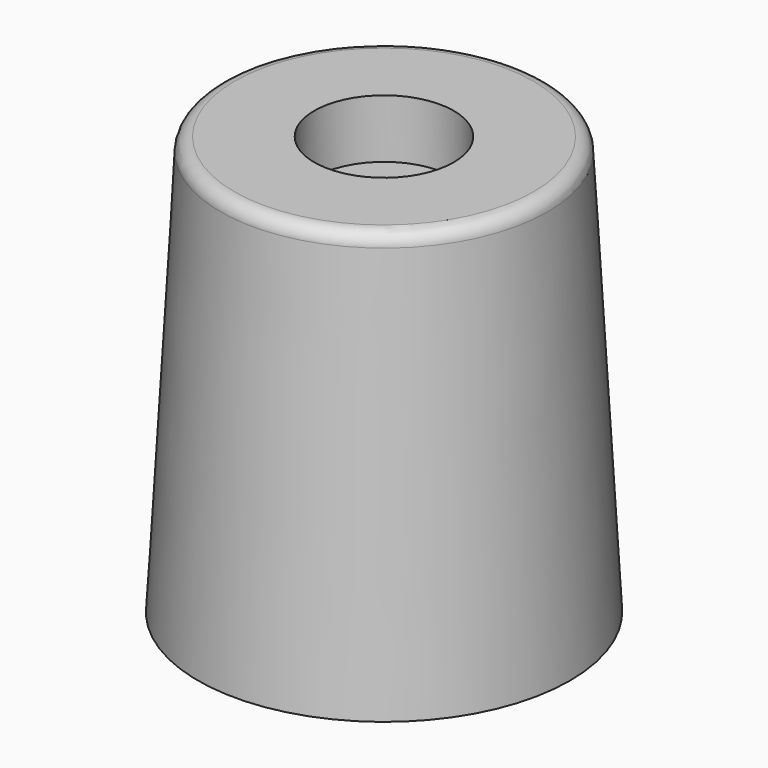
from build123d import *

# Parameters (mm, degrees)
F2_R     = 19.05
F3_DEPTH = 6.35
F4_R     = 19.05
F5_DEPTH = 16.002


with BuildPart() as f1:
    # F0 (on Front) → F1 (revolve)
    with BuildSketch(Plane.XZ):
        with BuildLine():
            Line((0, -53.330265), (0, 60.969735))
            Line((0, 60.969735), (-40.845792, 60.969735))
            ThreePointArc((-40.845792, 60.969735), (-43.464082, 59.927524), (-44.649926, 57.371076))
            Line((-44.649926, 57.371076), (-50.8, -53.330265))
            Line((-50.8, -53.330265), (0, -53.330265))
        make_face()
    revolve(axis=Axis((0, 0, 3.819735), (0, 0, -1)))

    # F2 (on face) → F3 (join)
    with BuildSketch(Plane(origin=(0, 0, -53.330265), x_dir=(1, 0, 0), z_dir=(0, 0, -1))):
        Circle(F2_R)
    extrude(amount=F3_DEPTH)

    # F4 (on face) → F5 (cut)
    with BuildSketch(Plane.XY.offset(60.969735)):
        Circle(F4_R)
    extrude(amount=-F5_DEPTH, mode=Mode.SUBTRACT)


solid = f1.part
